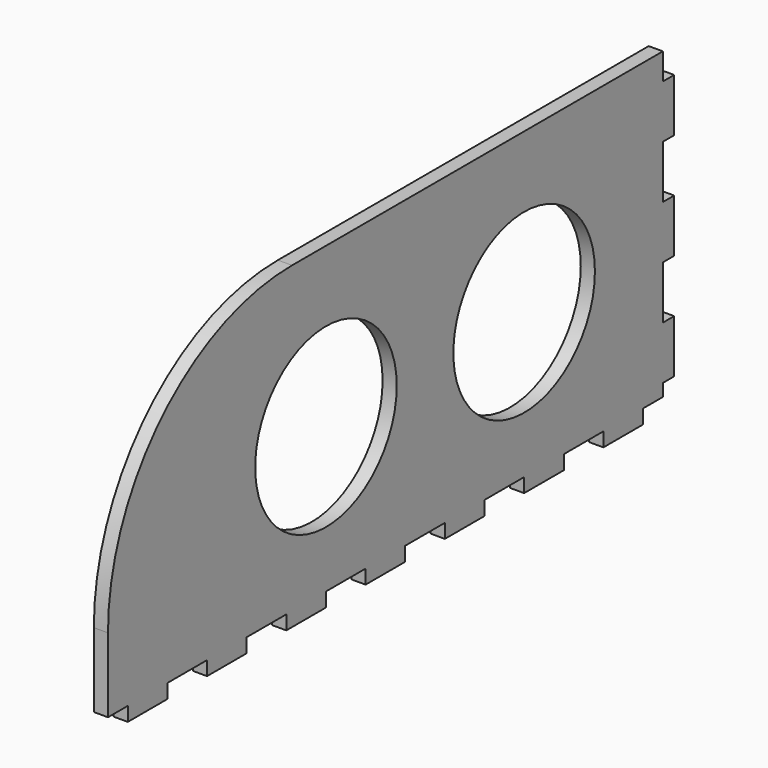
from build123d import *

# Parameters (mm, degrees)
SKETCH089_W     = 200
SKETCH089_H     = 90
PAD044_DEPTH    = 4
SKETCH088_R     = 25
SKETCH088_W     = 7
SKETCH088_H     = 4
SKETCH088_W_2   = 14
SKETCH088_W_3   = 4
SKETCH088_H_2   = 15
SKETCH088_H_3   = 7.5
POCKET040_DEPTH = 4
FILLET007_R     = 65


with BuildPart() as part:
    # Sketch089 → Pad044 (new body)
    with BuildSketch(Plane.YZ):
        Rectangle(SKETCH089_W, SKETCH089_H)
    extrude(amount=PAD044_DEPTH)

    # Sketch088 (on Face6 of Pad044) → Pocket040 (cut)
    with BuildSketch(Plane.YZ.offset(4)):
        with Locations((-23, 0)):
            Circle(SKETCH088_R)
        with Locations((47, 0)):
            Circle(SKETCH088_R)
        with Locations((-96.5, -43)):
            Rectangle(SKETCH088_W, SKETCH088_H)
        with Locations((-72, -43)):
            Rectangle(SKETCH088_W_2, SKETCH088_H)
        with Locations((-44, -43)):
            Rectangle(SKETCH088_W_2, SKETCH088_H)
        with Locations((-16, -43)):
            Rectangle(SKETCH088_W_2, SKETCH088_H)
        with Locations((12, -43)):
            Rectangle(SKETCH088_W_2, SKETCH088_H)
        with Locations((40, -43)):
            Rectangle(SKETCH088_W_2, SKETCH088_H)
        with Locations((68, -43)):
            Rectangle(SKETCH088_W_2, SKETCH088_H)
        with Locations((98, -15)):
            Rectangle(SKETCH088_W_3, SKETCH088_H_2)
        with Locations((98, 15)):
            Rectangle(SKETCH088_W_3, SKETCH088_H_2)
        with Locations((98, 41.25)):
            Rectangle(SKETCH088_W_3, SKETCH088_H_3)
        Polygon((89, -45), (89, -41), (96, -41), (96, -37.5), (100, -37.5), (100, -45), align=None)
    extrude(amount=-POCKET040_DEPTH, mode=Mode.SUBTRACT)

    # Fillet007
    fillet007_edges = [part.edges().sort_by_distance(p)[0] for p in [
        (2, -100, 45),
    ]]
    fillet(fillet007_edges, radius=FILLET007_R)


with BuildPart() as part_1:
    # Body044 placement: moved
    add(part.part.moved(Location((660, -402, 0))))


solid = part_1.part
